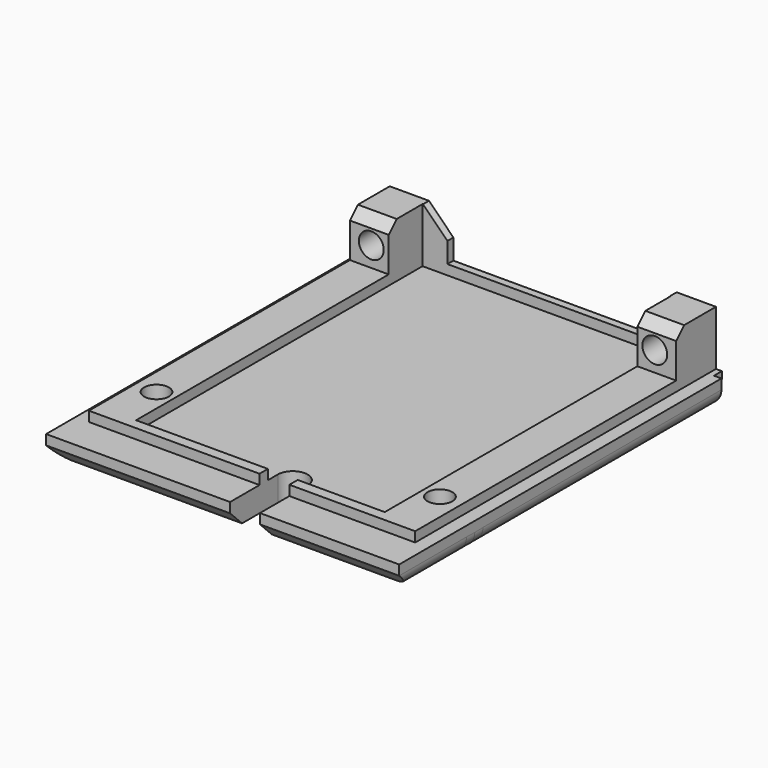
from build123d import *

# Parameters (mm, degrees)
SKETCH094_W        = 71
SKETCH094_H        = 81
PAD055_DEPTH       = 5
SKETCH096_W        = 68
SKETCH096_H        = 1.5
PAD053_DEPTH       = 2
SKETCH097_W        = 64.6
SKETCH097_H        = 77.6
PAD054_DEPTH       = 2
SKETCH098_W        = 50
SKETCH098_H        = 72
POCKET086_DEPTH    = 4
SKETCH095_W        = 7.3
SKETCH095_H        = 10
PAD057_DEPTH       = 9
SKETCH099_W        = 5
SKETCH099_H        = 3.5
PAD056_DEPTH       = 9
CHAMFER028_SIZE    = 4.9
SKETCH100_R        = 2.5
POCKET087_DEPTH    = 10
SKETCH102_R        = 2.5
POCKET091_DEPTH    = 10
SKETCH101_R        = 4.5
POCKET088_DEPTH    = 3
POCKET088_FACE29_W = 64.6
POCKET088_FACE29_H = 2
POCKET089_DEPTH    = 2
POCKET089_FACE16_W = 50
POCKET089_FACE16_H = 4
PAD059_DEPTH       = 2
POCKET092_DEPTH    = 2
CHAMFER027_SIZE    = 3
CHAMFER026_SIZE    = 2
SKETCH103_W        = 50
SKETCH103_H        = 72
PAD058_DEPTH       = 2
PAD058_FACE37_W    = 0.5
PAD058_FACE37_H    = 50
POCKET090_DEPTH    = 0.5
PAD061_DEPTH       = 0.5
PAD060_DEPTH       = 0.5
POCKET093_DEPTH    = 1
CHAMFER029_SIZE    = 0.999
FILLET010_R        = 3
POCKET094_DEPTH    = 50


with BuildPart() as part:
    # Sketch094 → Pad055 (new body)
    with BuildSketch(Plane.XY):
        with Locations((-0.121221, -9.466726)):
            Rectangle(SKETCH094_W, SKETCH094_H)
    extrude(amount=-PAD055_DEPTH)

    # Sketch096 (on Face1 of Pad055) → Pad053 (join)
    with BuildSketch(Plane(origin=(0, 31.033274, 0), x_dir=(-1, 0, 0), z_dir=(0, 1, 0))):
        with Locations((0.121221, -0.75)):
            Rectangle(SKETCH096_W, SKETCH096_H)
    extrude(amount=PAD053_DEPTH)

    # Sketch097 (on Face10 of Pad053) → Pad054 (join)
    with BuildSketch(Plane.XY):
        with Locations((-0.121221, -5.766726)):
            Rectangle(SKETCH097_W, SKETCH097_H)
    extrude(amount=PAD054_DEPTH)

    # Sketch098 (on Face13 of Pad054) → Pocket086 (cut)
    with BuildSketch(Plane.XY.offset(2)):
        with Locations((-0.121221, -6.466726)):
            Rectangle(SKETCH098_W, SKETCH098_H)
    extrude(amount=-POCKET086_DEPTH, mode=Mode.SUBTRACT)

    # Sketch095 (on Face14 of Pocket086) → Pad057 (join)
    with BuildSketch(Plane.XY.offset(2)):
        with Locations((28.528779, 28.033274)):
            Rectangle(SKETCH095_W, SKETCH095_H)
        with Locations((-28.771221, 28.033274)):
            Rectangle(SKETCH095_W, SKETCH095_H)
    extrude(amount=PAD057_DEPTH)

    # Sketch099 (on Face1 of Pad057) → Pad056 (join)
    with BuildSketch(Plane.XY.offset(2)):
        with Locations((-22.621221, 31.283274)):
            Rectangle(SKETCH099_W, SKETCH099_H)
        with Locations((22.378779, 31.283274)):
            Rectangle(SKETCH099_W, SKETCH099_H)
    extrude(amount=PAD056_DEPTH)

    # Chamfer028
    chamfer028_edges = [part.edges().sort_by_distance(p)[0] for p in [
        (-20.121221, 31.283274, 11),
        (19.878779, 31.283274, 11),
    ]]
    chamfer(chamfer028_edges, length=CHAMFER028_SIZE)

    # Sketch100 (on Face12 of Chamfer028) → Pocket087 (cut)
    with BuildSketch(Plane(origin=(0, 33.033274, 0), x_dir=(-1, 0, 0), z_dir=(0, 1, 0))):
        with Locations((-28.378779, 6)):
            Circle(SKETCH100_R)
        with Locations((28.621221, 6)):
            Circle(SKETCH100_R)
    extrude(amount=-POCKET087_DEPTH, mode=Mode.SUBTRACT)

    # Sketch102 (on Face30 of Pocket087) → Pocket091 (cut)
    with BuildSketch(Plane(origin=(0, 0, -5), x_dir=(1, 0, 0), z_dir=(0, 0, -1))):
        with Locations((-28.621221, 30.966726)):
            Circle(SKETCH102_R)
        with Locations((28.378779, 30.966726)):
            Circle(SKETCH102_R)
    extrude(amount=-POCKET091_DEPTH, mode=Mode.SUBTRACT)

    # Sketch101 (on Face32 of Pocket091) → Pocket088 (cut)
    with BuildSketch(Plane(origin=(0, 0, -5), x_dir=(1, 0, 0), z_dir=(0, 0, -1))):
        with Locations((-28.621221, 30.966726)):
            Circle(SKETCH101_R)
        with Locations((28.378779, 30.966726)):
            Circle(SKETCH101_R)
    extrude(amount=-POCKET088_DEPTH, mode=Mode.SUBTRACT)

    # Pocket088 Face29 → Pocket089 (cut)
    with BuildSketch(Plane(origin=(-0.121221, -44.566726, 1), x_dir=(-1, 0, 0), z_dir=(0, -1, 0))):
        Rectangle(POCKET088_FACE29_W, POCKET088_FACE29_H)
    extrude(amount=-POCKET089_DEPTH, mode=Mode.SUBTRACT)

    # Pocket089 Face16 → Pad059 (add)
    with BuildSketch(Plane(origin=(-0.121221, -42.466726, 0), x_dir=(1, 0, 0), z_dir=(0, 1, 0))):
        Rectangle(POCKET089_FACE16_W, POCKET089_FACE16_H)
    extrude(amount=PAD059_DEPTH)

    # Pad059 Face1 → Pocket092 (cut)
    with BuildSketch(Plane(origin=(-0.121221, 29.533274, 1.353834), x_dir=(-1, 0, 0), z_dir=(0, -1, 0))):
        Polygon((-25, -9.646166), (-24.9, -9.646166), (-20, -4.746166), (-20, -0.646166), (20, -0.646166), (20, -4.746166), (24.9, -9.646166), (25, -9.646166), (25, 3.353834), (-25, 3.353834), align=None)
    extrude(amount=-POCKET092_DEPTH, mode=Mode.SUBTRACT)

    # Chamfer027
    chamfer027_edges = [part.edges().sort_by_distance(p)[0] for p in [
        (-0.121221, -49.966726, -5),
    ]]
    chamfer(chamfer027_edges, length=CHAMFER027_SIZE)

    # Chamfer026
    chamfer026_edges = [part.edges().sort_by_distance(p)[0] for p in [
        (-28.771221, 23.033274, 11),
        (28.528779, 23.033274, 11),
    ]]
    chamfer(chamfer026_edges, length=CHAMFER026_SIZE)

    # Sketch103 (on Face10 of Chamfer026) → Pad058 (join)
    with BuildSketch(Plane.XY.offset(-2)):
        with Locations((-0.121221, -4.466726)):
            Rectangle(SKETCH103_W, SKETCH103_H)
    extrude(amount=PAD058_DEPTH)

    # Pad058 Face37 → Pocket090 (cut)
    with BuildSketch(Plane(origin=(-0.121221, 31.283274, -2), x_dir=(0, -1, 0), z_dir=(0, 0, -1))):
        Rectangle(PAD058_FACE37_W, PAD058_FACE37_H)
    extrude(amount=-POCKET090_DEPTH, mode=Mode.SUBTRACT)

    # Pocket090 Face9 → Pad061 (add)
    with BuildSketch(Plane(origin=(-32.421221, 7.336396, 2.99136), x_dir=(0, 1, 0), z_dir=(-1, 0, 0))):
        Polygon((17.696878, -8.00864), (25.696878, -8.00864), (25.696878, 2.99136), (-49.903122, 2.99136), (-49.903122, 0.99136), (15.696878, 0.99136), (15.696878, -6.00864), align=None)
    extrude(amount=PAD061_DEPTH)

    # Pad061 Face19 → Pad060 (add)
    with BuildSketch(Plane(origin=(32.178779, 7.336396, 2.99136), x_dir=(0, -1, 0), z_dir=(1, 0, 0))):
        Polygon((-15.696878, -6.00864), (-15.696878, 0.99136), (49.903122, 0.99136), (49.903122, 2.99136), (-25.696878, 2.99136), (-25.696878, -8.00864), (-17.696878, -8.00864), align=None)
    extrude(amount=PAD060_DEPTH)

    # Sketch104 (on Face22 of Pad060) → Pocket093 (cut)
    with BuildSketch(Plane(origin=(0, 0, -5), x_dir=(1, 0, 0), z_dir=(0, 0, -1))):
        with BuildLine():
            ThreePointArc((-5.121221, 34), (-0.121221, 28.999784), (4.878779, 34))
            Line((-5.121221, 34), (4.878779, 34))
        make_face()
    extrude(amount=-POCKET093_DEPTH, mode=Mode.SUBTRACT)

    # Chamfer029
    chamfer029_edges = [part.edges().sort_by_distance(p)[0] for p in [
        (-0.121221, -28.999784, -5),
    ]]
    chamfer(chamfer029_edges, length=CHAMFER029_SIZE)

    # Fillet010
    fillet010_edges = [part.edges().sort_by_distance(p)[0] for p in [
        (-35.621221, -7.966726, -5),
        (35.378779, -7.966726, -5),
    ]]
    fillet(fillet010_edges, radius=FILLET010_R)

    # Sketch105 (on Face1 of Fillet010) → Pocket094 (cut)
    with BuildSketch(Plane(origin=(0, 0, -5), x_dir=(1, 0, 0), z_dir=(0, 0, -1))):
        with BuildLine():
            Line((1.378779, 37.966726), (1.378779, 49.966726))
            Line((1.378779, 49.966726), (7.378779, 49.966726))
            Line((7.378779, 49.966726), (7.378779, 37.966726))
            ThreePointArc((1.378779, 37.966726), (4.378779, 34.966726), (7.378779, 37.966726))
        make_face()
    extrude(amount=-POCKET094_DEPTH, mode=Mode.SUBTRACT)


with BuildPart() as part_1:
    # Body007 placement: moved
    add(part.part.moved(Location((0.1, -10.49, -34))))


solid = part_1.part
